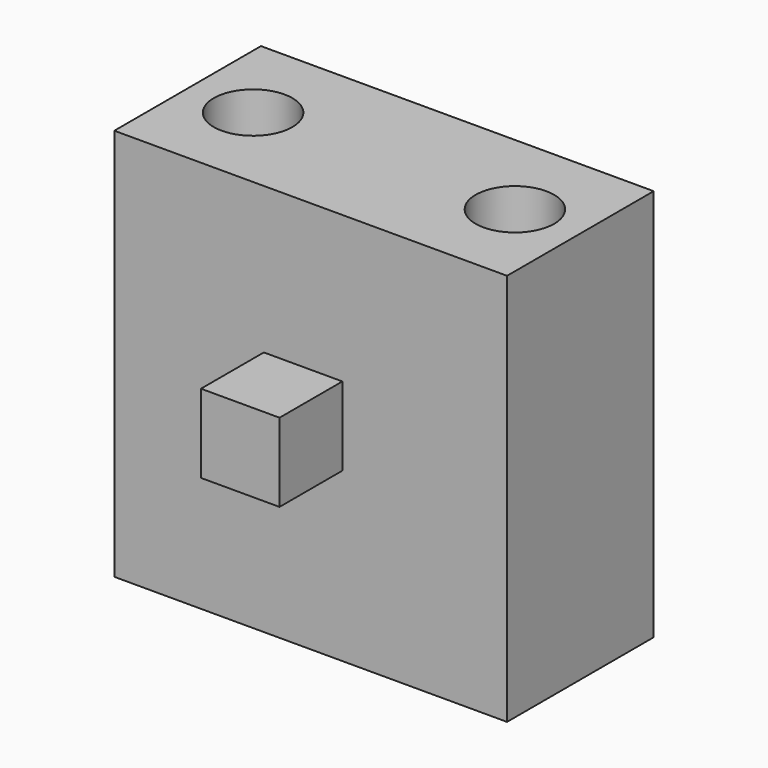
from build123d import *

# Parameters (mm, degrees)
F0_W     = 15
F0_H     = 15
F1_DEPTH = 7
F2_R     = 1.5
F3_DEPTH = 15
F4_R     = 1.5
F5_DEPTH = 15
F6_W     = 3
F6_H     = 3
F7_DEPTH = 3
F8_R     = 2.5
F9_DEPTH = 6
F10_R    = 2.5


with BuildPart() as f1:
    # F0 (on Front) → F1 (new body)
    with BuildSketch(Plane.XZ):
        with Locations((4.360599, 2.854392)):
            Rectangle(F0_W, F0_H)
    extrude(amount=F1_DEPTH)

    # F2 (on face) → F3 (cut)
    with BuildSketch(Plane.XY.offset(10.354392)):
        with Locations((-0.639401, -3.5)):
            Circle(F2_R)
    extrude(amount=-F3_DEPTH, mode=Mode.SUBTRACT)

    # F4 (on face) → F5 (cut)
    with BuildSketch(Plane.XY.offset(10.354392)):
        with Locations((9.360599, -3.5)):
            Circle(F4_R)
    extrude(amount=-F5_DEPTH, mode=Mode.SUBTRACT)

    # F6 (on face) → F7 (join)
    with BuildSketch(Plane.XZ.offset(7)):
        with Locations((4.070706, 3.2569)):
            Rectangle(F6_W, F6_H)
    extrude(amount=F7_DEPTH)

    # F8 (on face) → F9 (join)
    with BuildSketch(Plane(origin=(0, 0, 0), x_dir=(-1, 0, 0), z_dir=(0, 1, 0))):
        with Locations((-4.360599, 2.854392)):
            Circle(F8_R)
    extrude(amount=F9_DEPTH)

    # F10
    f10_edges = [f1.edges().sort_by_distance(p)[0] for p in [
        (6.860599, 6, 2.854392),
    ]]
    fillet(f10_edges, radius=F10_R)


solid = f1.part
